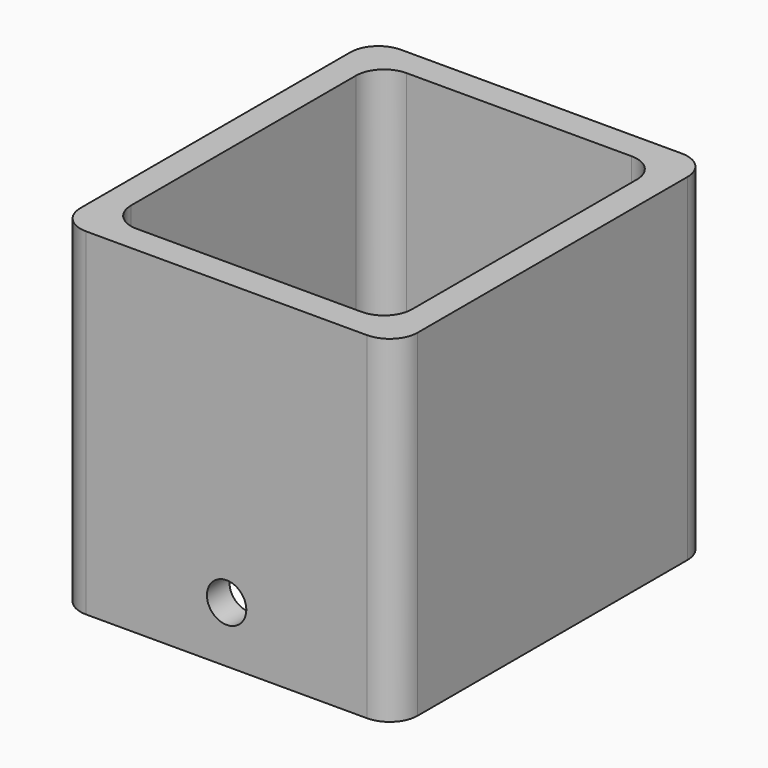
from build123d import *

# Parameters (mm, degrees)
F0_W     = 60
F0_H     = 70
F0_W_2   = 50
F0_H_2   = 60
F1_DEPTH = 60
F2_R     = 5
F3_R     = 3.5
F4_DEPTH = 70


with BuildPart() as f1:
    # F0 (on Top) → F1 (new body)
    with BuildSketch(Plane.XY):
        Rectangle(F0_W, F0_H)
        Rectangle(F0_W_2, F0_H_2, mode=Mode.SUBTRACT)
    extrude(amount=F1_DEPTH)

    # F2
    f2_edges = [f1.edges().sort_by_distance(p)[0] for p in [
        (-30, 35, 30),
        (-30, -35, 30),
        (30, -35, 30),
        (30, 35, 30),
        (-25, -30, 30),
        (25, -30, 30),
        (25, 30, 30),
        (-25, 30, 30),
    ]]
    fillet(f2_edges, radius=F2_R)

    # F3 (on face) → F4 (cut)
    with BuildSketch(Plane(origin=(0, 35, 0), x_dir=(-1, 0, 0), z_dir=(0, 1, 0))):
        with Locations((0, 10)):
            Circle(F3_R)
    extrude(amount=-F4_DEPTH, mode=Mode.SUBTRACT)


solid = f1.part
